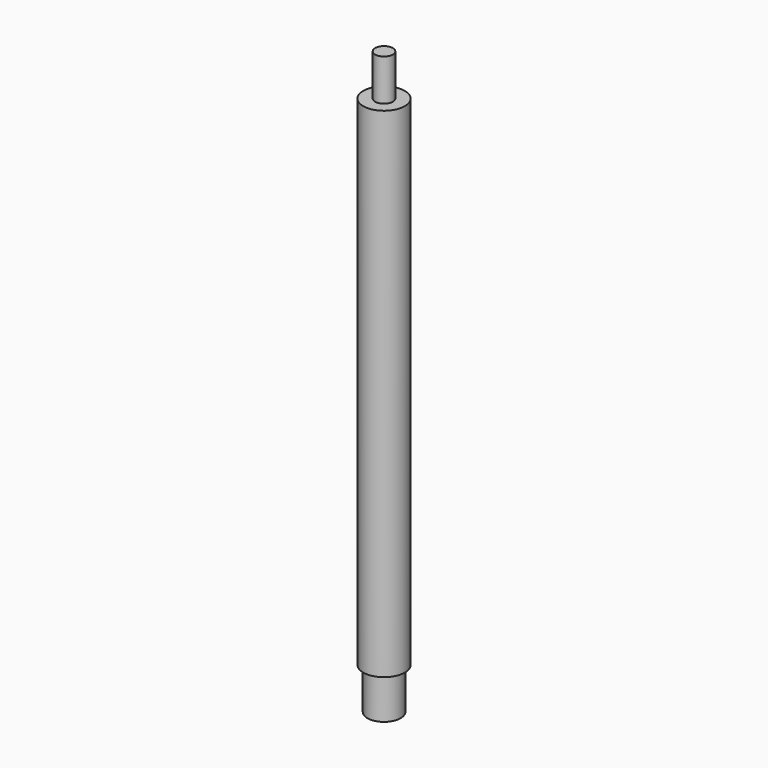
from build123d import *

# Parameters (mm, degrees)
F0_R     = 6.35
F1_DEPTH = 88.9
F2_R     = 6.35
F2_R_2   = 2.69875
F3_DEPTH = 12.7
F4_R     = 6.35
F4_R_2   = 5.08
F5_DEPTH = 12.7


with BuildPart() as f1:
    # F0 (on Top) → F1 (new body, symmetric)
    with BuildSketch(Plane.XY):
        Circle(F0_R)
    extrude(amount=F1_DEPTH, both=True)

    # F2 (on face) → F3 (cut)
    with BuildSketch(Plane.XY.offset(88.9)):
        Circle(F2_R)
        Circle(F2_R_2, mode=Mode.SUBTRACT)
    extrude(amount=-F3_DEPTH, mode=Mode.SUBTRACT)

    # F4 (on face) → F5 (cut)
    with BuildSketch(Plane(origin=(0, 0, -88.9), x_dir=(1, 0, 0), z_dir=(0, 0, -1))):
        Circle(F4_R)
        Circle(F4_R_2, mode=Mode.SUBTRACT)
    extrude(amount=-F5_DEPTH, mode=Mode.SUBTRACT)


solid = f1.part
